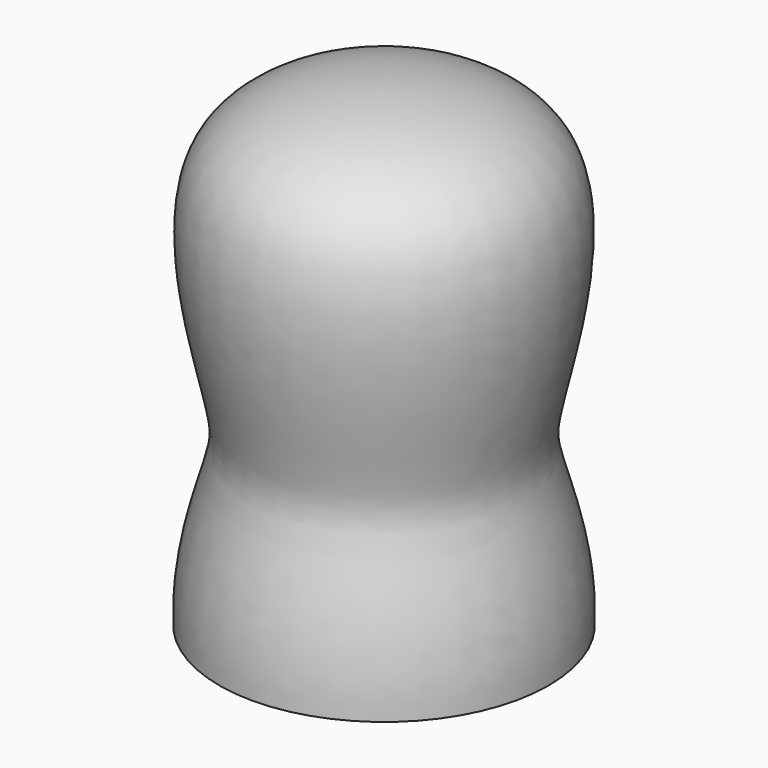
from build123d import *

# Parameters (mm, degrees)
F2_W     = 5.2
F2_H     = 2
F3_DEPTH = 10


with BuildPart() as f1:
    # F0 (on Front) → F1 (revolve)
    with BuildSketch(Plane.XZ):
        with BuildLine():
            Line((0, 13), (0, 0))
            Line((0, 0), (4.5, 0))
            add(Edge.make_bspline(
                [(0, 13), (1.6485750989, 13), (5.5136542005, 12.068103322), (3.815420868, 5.6041278578), (3.5857608438, 4.0563703542), (4.5469201535, 1.9157821881), (4.5, 0)],
                knots=[0, 0, 0, 0, 0.2736708974, 0.575276461, 0.7381337799, 1, 1, 1, 1], degree=3))
        make_face()
    revolve(axis=Axis((0, 0, 6.5), (0, 0, 1)))

    # F2 (on face) → F3 (cut)
    with BuildSketch(Plane(origin=(0, 0, 0), x_dir=(1, 0, 0), z_dir=(0, 0, -1))):
        Rectangle(F2_W, F2_H)
    extrude(amount=-F3_DEPTH, mode=Mode.SUBTRACT)


solid = f1.part
